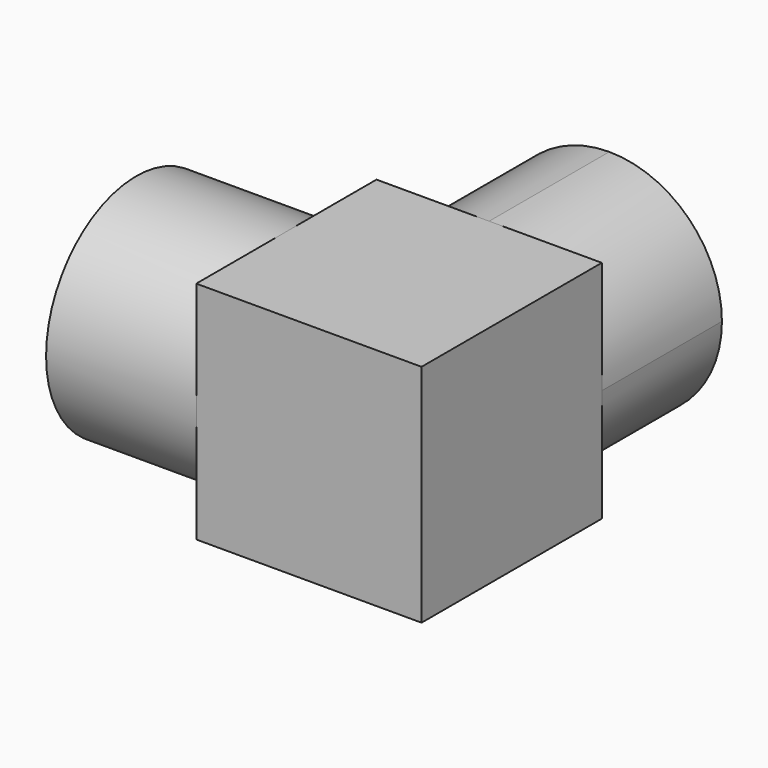
from build123d import *

# Parameters (mm, degrees)
F0_W     = 19.05
F0_H     = 19.05
F1_DEPTH = 9.525
F2_R     = 6.35
F3_DEPTH = 12.7
F4_R     = 9.525
F4_R_2   = 6.35
F5_DEPTH = 12.7


with BuildPart() as f1:
    # F0 (on Top) → F1 (new body, symmetric)
    with BuildSketch(Plane.XY):
        Rectangle(F0_W, F0_H)
    extrude(amount=F1_DEPTH, both=True)

    # F2 (on face) → F3 (join)
    with BuildSketch(Plane(origin=(0, 9.525, 0), x_dir=(-1, 0, 0), z_dir=(0, 1, 0))):
        with BuildLine():
            ThreePointArc((0, -9.525), (6.7351920908, -6.7351920908), (9.525, 0))
            ThreePointArc((9.525, 0), (6.7351920908, 6.7351920908), (0, 9.525))
            ThreePointArc((0, 9.525), (-6.7351920908, 6.7351920908), (-9.525, 0))
            ThreePointArc((-9.525, 0), (-6.7351920908, -6.7351920908), (0, -9.525))
        make_face()
        Circle(F2_R, mode=Mode.SUBTRACT)
    extrude(amount=F3_DEPTH)

    # F4 (on face) → F5 (join)
    with BuildSketch(Plane(origin=(-9.525, 0, 0), x_dir=(0, -1, 0), z_dir=(-1, 0, 0))):
        Circle(F4_R)
        Circle(F4_R_2, mode=Mode.SUBTRACT)
    extrude(amount=F5_DEPTH)


solid = f1.part
